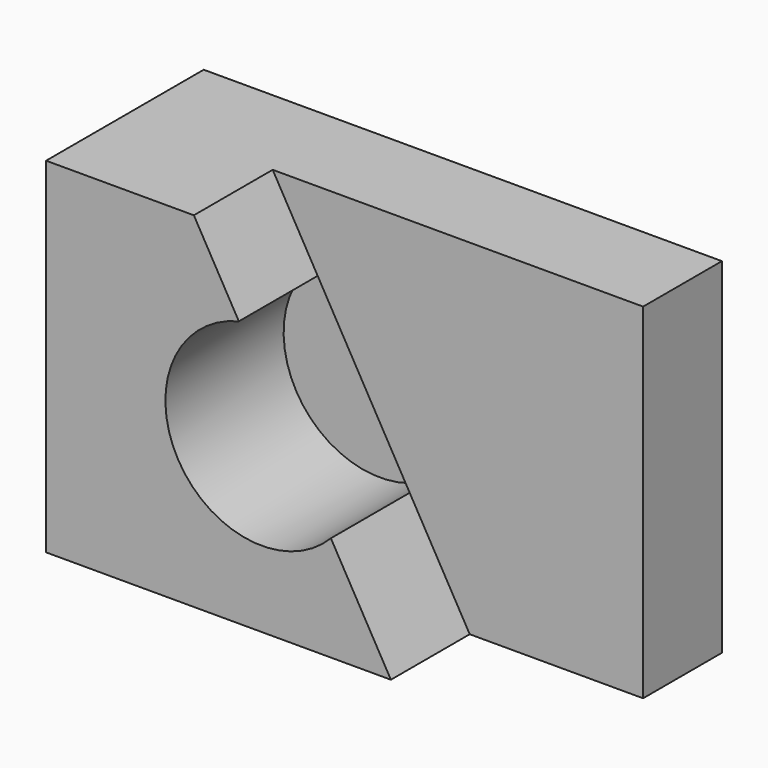
from build123d import *

# Parameters (mm, degrees)
F0_W     = 66.8018609285
F0_H     = 44.45
F1_DEPTH = 25.4
F3_DEPTH = 12.7
F5_DEPTH = 19.05


with BuildPart() as f1:
    # F0 (on Front) → F1 (new body)
    with BuildSketch(Plane.XZ):
        with Locations((-6.9442056119, 13.2829286516)):
            Rectangle(F0_W, F0_H)
    extrude(amount=F1_DEPTH)

    # F2 (on face) → F3 (cut)
    with BuildSketch(Plane.XZ.offset(25.4)):
        Polygon((26.4567248523, 35.5079286516), (-21.2951360762, 35.5079286516), (4.1048639238, -8.9420713484), (26.4567248523, -8.9420713484), align=None)
    extrude(amount=-F3_DEPTH, mode=Mode.SUBTRACT)

    # F4 (on face) → F5 (cut)
    with BuildSketch(Plane.XZ.offset(25.4)):
        with BuildLine():
            Line((-3.6320969141, 4.5976101178), (-15.4953949278, 25.3583816418))
            ThreePointArc((-15.4953949278, 25.3583816418), (-23.3260269454, 7.1138352944), (-3.6320969141, 4.5976101178))
        make_face()
    extrude(amount=-F5_DEPTH, mode=Mode.SUBTRACT)


solid = f1.part
